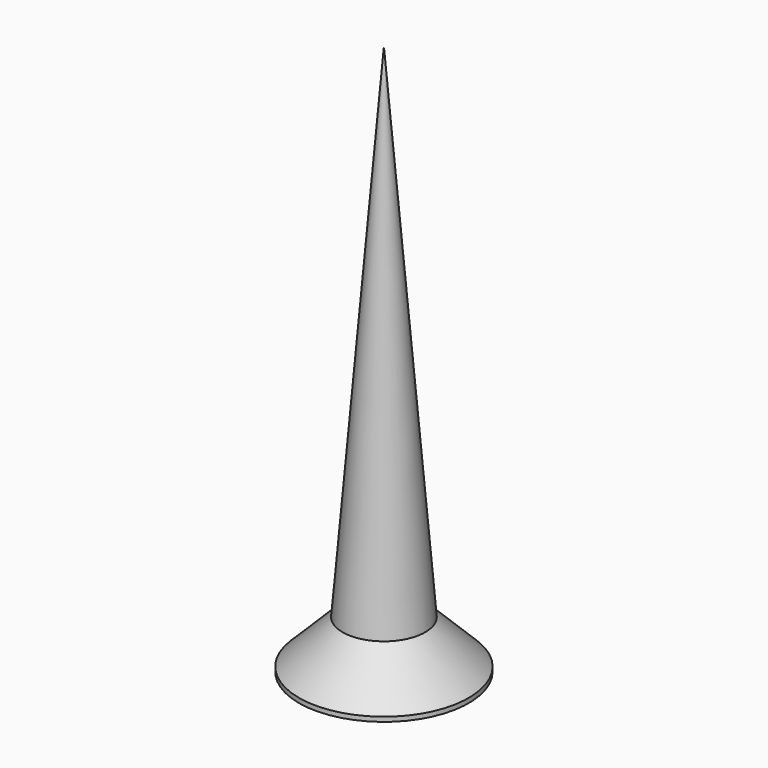
from build123d import *

# Parameters (mm, degrees)
POCKET004_DEPTH         = 0.2
POLARPATTERN004_COUNT   = 2
POLARPATTERN004_ANGLE   = 90
BODY008_PLACEMENT_ANGLE = 180


with BuildPart() as part:
    # Sketch016 → Revolution004 (revolve)
    with BuildSketch(Plane.XZ):
        Polygon((0, 0), (0, -12), (0.9, -1.05), (1.85, -0.1), (1.85, 0), align=None)
    revolve(axis=Axis((0, 0, 0), (0, 0, 1)))

    # Sketch015 → Pocket004 (cut, symmetric)
    with BuildSketch(Plane.XZ):
        Polygon((-1.15, 0), (0, -1.15), (1.15, 0), align=None)
    pocket004 = extrude(amount=POCKET004_DEPTH, both=True, mode=Mode.SUBTRACT)

    # PolarPattern004: Pocket004 ×2 about axis
    polarpattern004_axis = Axis((0, 0, 0), (0, 0, 1))
    for i in range(1, POLARPATTERN004_COUNT):
        add(pocket004.rotate(polarpattern004_axis, i * POLARPATTERN004_ANGLE / (POLARPATTERN004_COUNT - 1)), mode=Mode.SUBTRACT)


with BuildPart() as part_1:
    # Body008 placement: moved
    add(part.part.moved(Location((-25, -19, -6.7))).rotate(Axis((-25, -19, -6.7), (0, 1, 0)), BODY008_PLACEMENT_ANGLE))


solid = part_1.part
